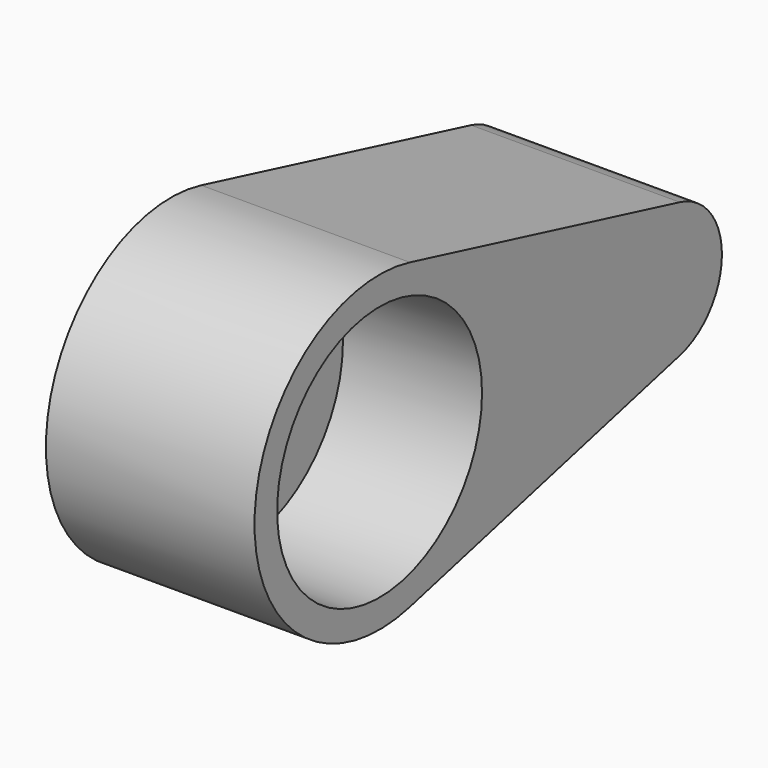
from build123d import *

# Parameters (mm, degrees)
F1_DEPTH = 76.2
F2_R     = 46.767549
F3_DEPTH = 50.8


with BuildPart() as f1:
    # F0 (on Right) → F1 (new body)
    with BuildSketch(Plane.YZ):
        with BuildLine():
            ThreePointArc((-47.755212, -55.394912), (-16.585087, -35.145607), (-4.485609, 0))
            ThreePointArc((-4.485609, 0), (-16.585087, 35.145607), (-47.755212, 55.394912))
            ThreePointArc((-47.755212, 55.394912), (-118.673271, 0), (-47.755212, -55.394912))
        make_face()
        with BuildLine():
            ThreePointArc((-47.755212, 55.394912), (-16.585087, 35.145607), (-4.485609, 0))
            ThreePointArc((-4.485609, 0), (-16.585087, -35.145607), (-47.755212, -55.394912))
            Line((-47.755212, -55.394912), (75.465698, -24.644182))
            ThreePointArc((75.465698, -24.644182), (43.915552, 0), (75.465698, 24.644182))
            Line((75.465698, 24.644182), (-47.755212, 55.394912))
        make_face()
        with BuildLine():
            ThreePointArc((94.715552, 0), (89.332716, 15.635637), (75.465698, 24.644182))
            ThreePointArc((75.465698, 24.644182), (43.915552, 0), (75.465698, -24.644182))
            ThreePointArc((75.465698, -24.644182), (89.332716, -15.635637), (94.715552, 0))
        make_face()
    extrude(amount=F1_DEPTH)

    # F2 (on face) → F3 (cut)
    with BuildSketch(Plane.YZ.offset(76.2)):
        with Locations((-61.57944, 0)):
            Circle(F2_R)
    extrude(amount=-F3_DEPTH, mode=Mode.SUBTRACT)


solid = f1.part
